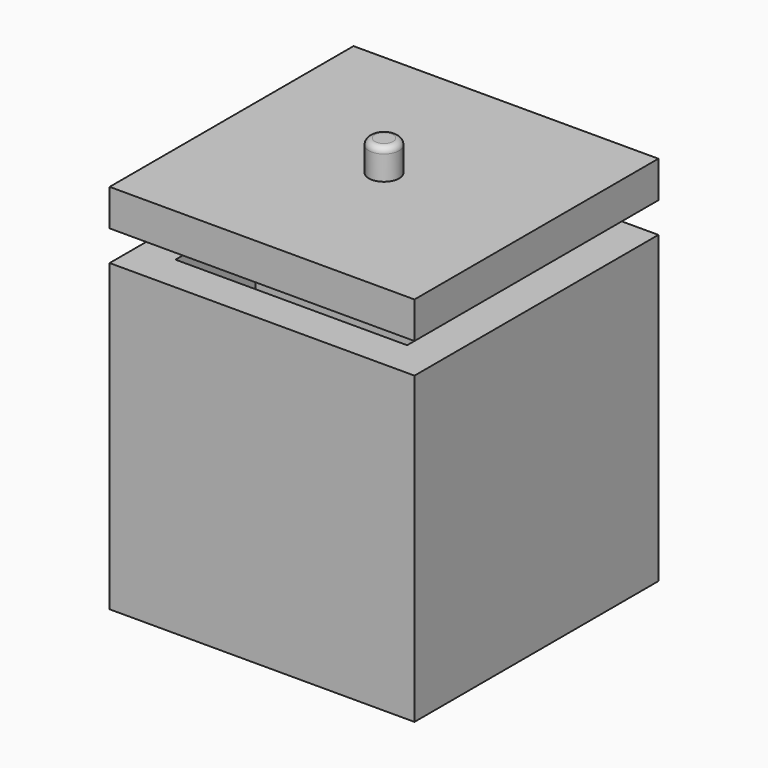
from build123d import *

# Parameters (mm, degrees)
F0_W     = 100
F0_H     = 100
F1_DEPTH = 100
F2_T     = -12
F3_W     = 100
F3_H     = 10.582822
F4_DEPTH = 100
F6_W     = 100
F6_H     = 100
F7_DEPTH = 12
F8_R     = 5
F9_DEPTH = 10
F10_R    = 2


with BuildPart() as f1:
    # F0 (on Top) → F1 (new body)
    with BuildSketch(Plane.XY):
        Rectangle(F0_W, F0_H)
    extrude(amount=F1_DEPTH)

    # F2
    f2_openings = [f1.faces().sort_by_distance(p)[0] for p in [
        (0, 0, 100),
    ]]
    offset(amount=F2_T, openings=f2_openings)

    # F3 (on Top) → F4 (join)
    with BuildSketch(Plane.XY):
        Rectangle(F3_W, F3_H)
    extrude(amount=F4_DEPTH)


with BuildPart() as f7:
    # F6 (on offset) → F7 (new body)
    with BuildSketch(Plane.XY.offset(110)):
        Rectangle(F6_W, F6_H)
    extrude(amount=F7_DEPTH)

    # F8 (on face) → F9 (join)
    with BuildSketch(Plane.XY.offset(122)):
        Circle(F8_R)
    extrude(amount=F9_DEPTH)

    # F10
    f10_edges = [f7.edges().sort_by_distance(p)[0] for p in [
        (-5, 0, 132),
    ]]
    fillet(f10_edges, radius=F10_R)


solid = Compound([f1.part, f7.part])
